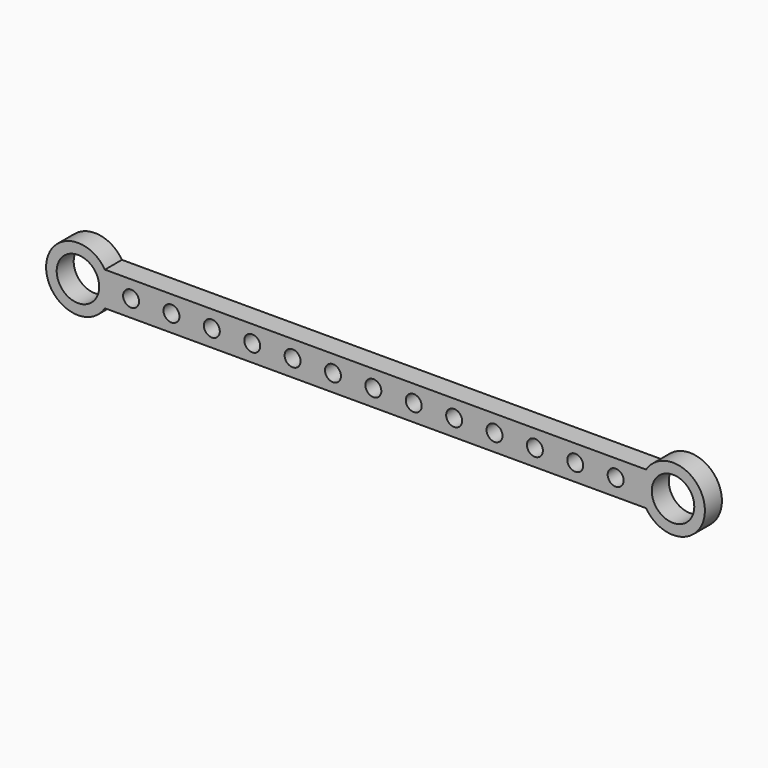
from build123d import *

# Parameters (mm, degrees)
F0_R     = 12.7
F1_DEPTH = 12.7
F2_D     = 9.525


with BuildPart() as f1:
    # F0 (on Front) → F1 (new body)
    with BuildSketch(Plane.XZ):
        with BuildLine():
            Line((-339.485507, -10.16), (-16.114493, -10.16))
            ThreePointArc((-16.114493, -10.16), (19.05, 0), (-16.114493, 10.16))
            Line((-16.114493, 10.16), (-339.485507, 10.16))
            ThreePointArc((-339.485507, 10.16), (-374.65, 0), (-339.485507, -10.16))
        make_face()
        with Locations((-355.6, 0)):
            Circle(F0_R, mode=Mode.SUBTRACT)
        Circle(F0_R, mode=Mode.SUBTRACT)
    extrude(amount=F1_DEPTH)

    # F2 (through all)
    with Locations(Plane(origin=(0, 0, 0), x_dir=(1, 0, 0), z_dir=(0, 1, 0))):
        with Locations((-323.85, 0), (-299.72, 0), (-275.59, 0), (-251.46, 0), (-227.33, 0), (-203.2, 0), (-179.07, 0), (-154.94, 0), (-130.81, 0), (-106.68, 0), (-82.55, 0), (-58.42, 0), (-34.29, 0)):
            Hole(F2_D / 2)


solid = f1.part
